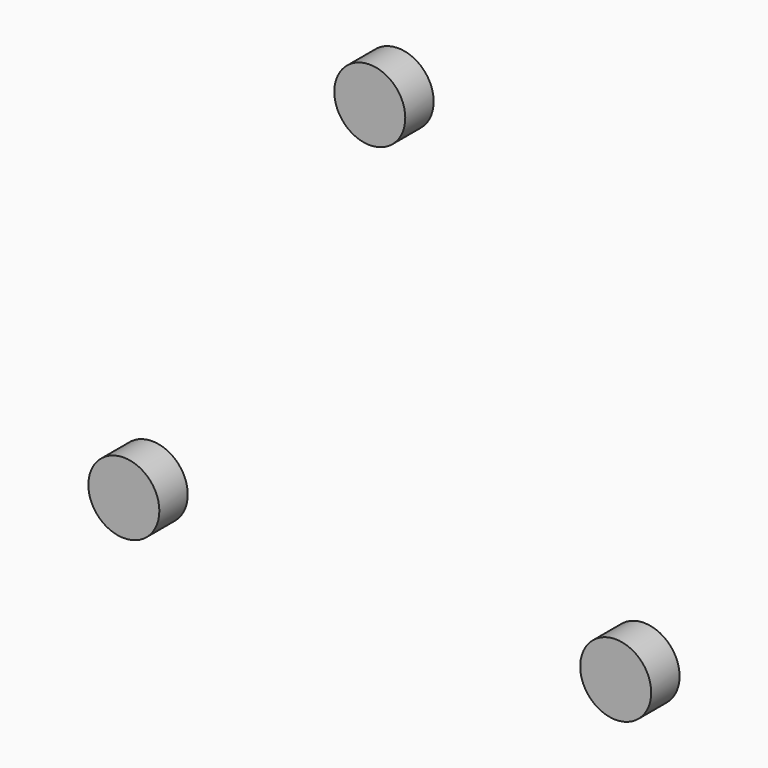
from build123d import *

# Parameters (mm, degrees)
F0_R     = 25.4
F1_DEPTH = 25.4


with BuildPart() as f1:
    # F0 (on Front) → F1 (new body)
    with BuildSketch(Plane.XZ):
        with Locations((0, 203.2)):
            Circle(F0_R)
        with Locations((175.976362, -101.6)):
            Circle(F0_R)
        with Locations((-175.976362, -101.6)):
            Circle(F0_R)
    extrude(amount=F1_DEPTH)


solid = f1.part
